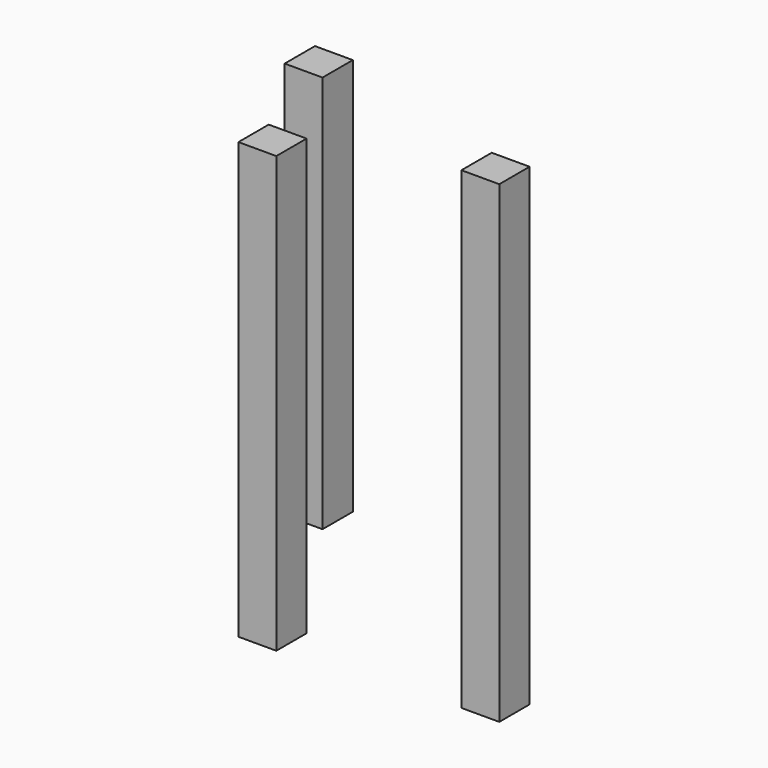
from build123d import *

# Parameters (mm, degrees)
F0_W     = 20
F0_H     = 20
F1_DEPTH = 250
F2_DEPTH = 230
F3_DEPTH = 210


with BuildPart() as f1:
    # F0 (on Top) → F1 (new body)
    with BuildSketch(Plane.XY):
        with Locations((53.16562, -58.050344)):
            Rectangle(F0_W, F0_H)
    extrude(amount=F1_DEPTH)


with BuildPart() as f2:
    # F0 (on Top) → F2 (new body)
    with BuildSketch(Plane.XY):
        with Locations((-58.33647, -65.875739)):
            Rectangle(F0_W, F0_H)
    extrude(amount=F2_DEPTH)


with BuildPart() as f3:
    # F0 (on Top) → F3 (new body)
    with BuildSketch(Plane.XY):
        with Locations((-111.250907, 30.782295)):
            Rectangle(F0_W, F0_H)
    extrude(amount=F3_DEPTH)


solid = Compound([f1.part, f2.part, f3.part])
